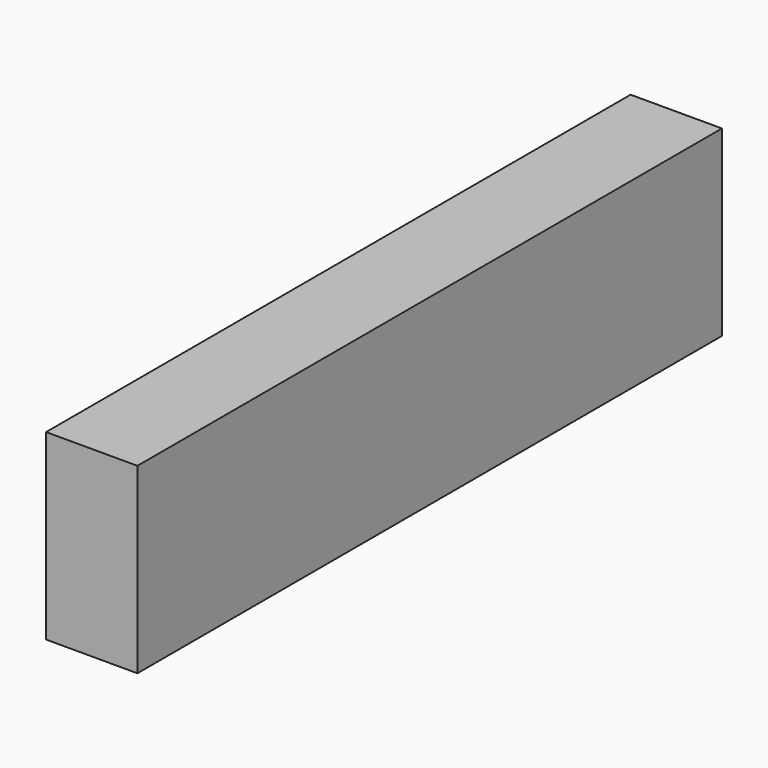
from build123d import *

# Parameters (mm, degrees)
F0_W     = 19.053429
F0_H     = 38.106883
F1_DEPTH = 152.4


with BuildPart() as f1:
    # F0 (on Front) → F1 (new body)
    with BuildSketch(Plane.XZ):
        with Locations((-1.2e-05, 1.3e-05)):
            Rectangle(F0_W, F0_H)
    extrude(amount=F1_DEPTH)


solid = f1.part
